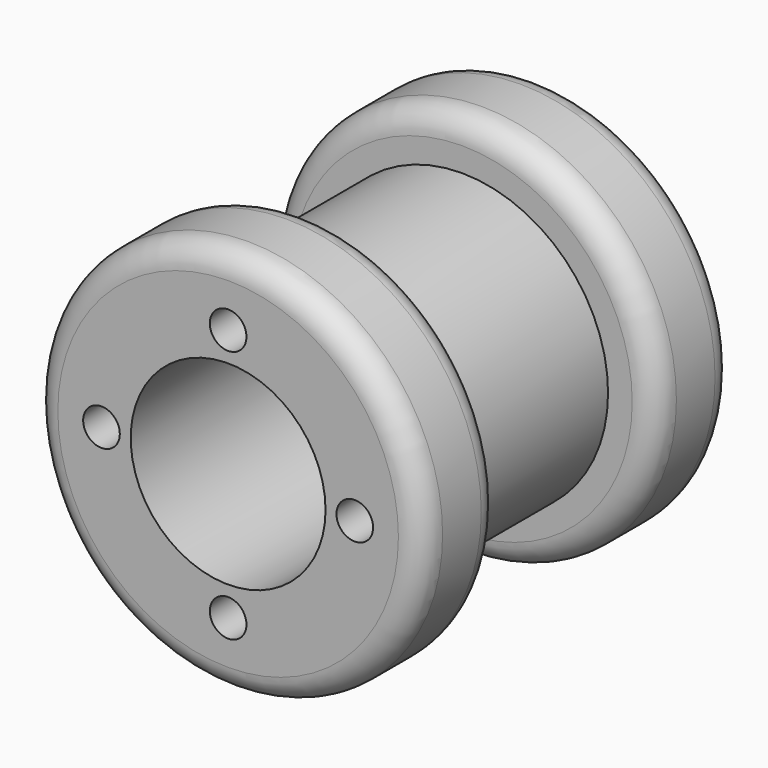
from build123d import *

# Parameters (mm, degrees)
F0_R      = 12.7
F1_DEPTH  = 6.35
F2_R      = 9.525
F3_DEPTH  = 12.7
F4_R      = 12.7
F5_DEPTH  = 6.35
F6_R      = 1.6002
F7_R      = 1.1938
F8_DEPTH  = 3.175
F9_R      = 6.35
F10_DEPTH = 25.401


with BuildPart() as f1:
    # F0 (on Front) → F1 (new body)
    with BuildSketch(Plane.XZ):
        Circle(F0_R)
    extrude(amount=F1_DEPTH)

    # F2 (on face) → F3 (join)
    with BuildSketch(Plane.XZ.offset(6.35)):
        Circle(F2_R)
    extrude(amount=F3_DEPTH)

    # F4 (on face) → F5 (join)
    with BuildSketch(Plane.XZ.offset(19.05)):
        Circle(F4_R)
    extrude(amount=F5_DEPTH)

    # F6
    f6_edges = [f1.edges().sort_by_distance(p)[0] for p in [
        (-12.7, -25.4, 0),
        (-12.7, -19.05, 0),
        (-12.7, -6.35, 0),
        (-12.7, 0, 0),
    ]]
    fillet(f6_edges, radius=F6_R)

    # F7 (on face) → F8 (cut)
    with BuildSketch(Plane.XZ.offset(25.4)):
        with Locations((-8.255, 0)):
            Circle(F7_R)
        with Locations((0, -8.255)):
            Circle(F7_R)
        with Locations((8.255, 0)):
            Circle(F7_R)
        with Locations((0, 8.255)):
            Circle(F7_R)
    extrude(amount=-F8_DEPTH, mode=Mode.SUBTRACT)

    # F9 (on face) → F10 (cut, through all)
    with BuildSketch(Plane.XZ.offset(25.4)):
        Circle(F9_R)
    extrude(amount=-F10_DEPTH, mode=Mode.SUBTRACT)


solid = f1.part
